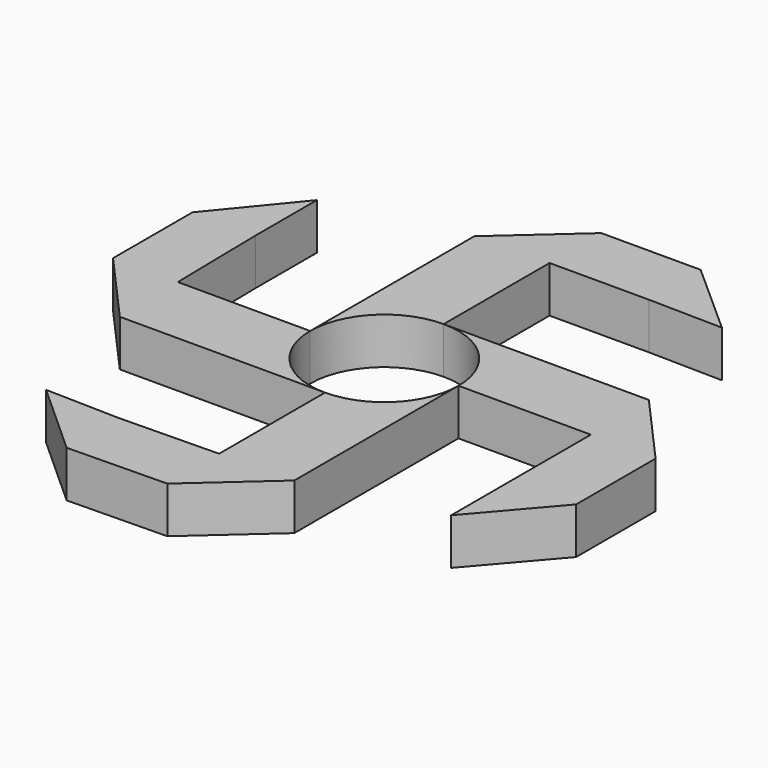
from build123d import *

# Parameters (mm, degrees)
F1_DEPTH = 7
F2_DEPTH = 7


with BuildPart() as f1:
    # F0 (on Top) → F1 (new body)
    with BuildSketch(Plane.XY):
        with BuildLine():
            ThreePointArc((0, 11.2), (7.919596, 7.919596), (11.2, 0))
            Line((11.2, 0), (31.2, 0))
            Line((31.2, 0), (31, 11.2))
            Line((31, 11.2), (0, 11.2))
        make_face()
        with BuildLine():
            Line((11.2, -31), (11.2, 0))
            ThreePointArc((11.2, 0), (7.919596, -7.919596), (0, -11.2))
            Line((0, -11.2), (0, -31.2))
            Line((0, -31.2), (11.2, -31))
        make_face()
        with BuildLine():
            Line((-31, -11.2), (0, -11.2))
            ThreePointArc((0, -11.2), (-7.919596, -7.919596), (-11.2, 0))
            Line((-11.2, 0), (-31.2, 0))
            Line((-31.2, 0), (-31, -11.2))
        make_face()
        with BuildLine():
            ThreePointArc((-11.2, 0), (-7.919596, 7.919596), (0, 11.2))
            Line((0, 11.2), (0, 31.2))
            Line((0, 31.2), (-11.2, 31))
            Line((-11.2, 31), (-11.2, 0))
        make_face()
    extrude(amount=F1_DEPTH)


with BuildPart() as f2:
    # F0 (on Top) → F2 (new body)
    with BuildSketch(Plane.XY):
        Polygon((-11.2, 31), (0, 31.2), (15, 31.2), (26.2, 31), (15, 40.977976), (0, 40.977976), align=None)
        with BuildLine():
            ThreePointArc((-11.2, 0), (-7.919596, 7.919596), (0, 11.2))
            Line((0, 11.2), (0, 31.2))
            Line((0, 31.2), (-11.2, 31))
            Line((-11.2, 31), (-11.2, 0))
        make_face()
        Polygon((-40.977976, 0), (-31, -11.2), (-31.2, 0), (-31.467814, 14.997609), (-31.467814, 26.599863), (-40.977976, 15), align=None)
        with BuildLine():
            Line((-31, -11.2), (0, -11.2))
            ThreePointArc((0, -11.2), (-7.919596, -7.919596), (-11.2, 0))
            Line((-11.2, 0), (-31.2, 0))
            Line((-31.2, 0), (-31, -11.2))
        make_face()
        with BuildLine():
            ThreePointArc((0, 11.2), (7.919596, 7.919596), (11.2, 0))
            Line((11.2, 0), (31.2, 0))
            Line((31.2, 0), (31, 11.2))
            Line((31, 11.2), (0, 11.2))
        make_face()
        Polygon((31, 11.2), (31.2, 0), (31.2, -15), (31.2, -26.375025), (40.977976, -15), (40.977976, 0), align=None)
        Polygon((0, -40.977976), (11.2, -31), (0, -31.2), (-14.997609, -31.467814), (-26.136823, -31.2), (-14.997609, -41.24579), align=None)
        with BuildLine():
            Line((11.2, -31), (11.2, 0))
            ThreePointArc((11.2, 0), (7.919596, -7.919596), (0, -11.2))
            Line((0, -11.2), (0, -31.2))
            Line((0, -31.2), (11.2, -31))
        make_face()
    extrude(amount=F2_DEPTH)


solid = Compound([f1.part, f2.part])
